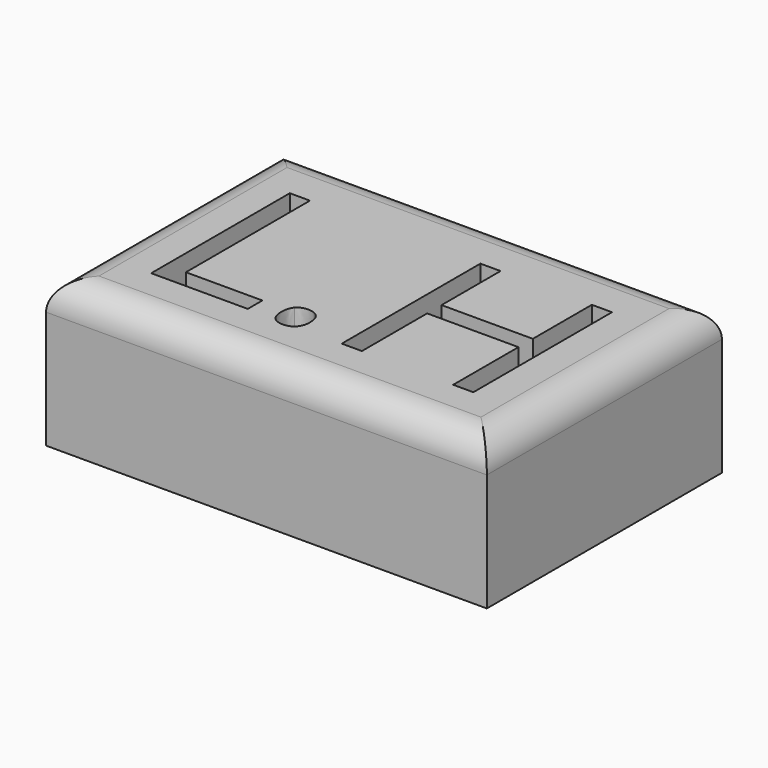
from build123d import *

# Parameters (mm, degrees)
F0_W     = 15
F0_H     = 10
F1_DEPTH = 5
F2_R     = 1


with BuildPart() as f1:
    # F0 (on Top) → F1 (new body)
    with BuildSketch(Plane.XY):
        with Locations((-17.5, -15)):
            Rectangle(F0_W, F0_H)
        with BuildLine():
            add(Edge.make_bspline(
                [(-18.7934799951, -17.996347811), (-18.9283657599, -17.8692066834), (-18.9283657599, -17.578782788)],
                knots=[0, 0, 0, 1, 1, 1], degree=2))
            add(Edge.make_bspline(
                [(-18.9283657599, -17.578782788), (-18.9283657599, -17.3077204856), (-18.8050969509, -17.1689624022)],
                knots=[0, 0, 0, 1, 1, 1], degree=2))
            add(Edge.make_bspline(
                [(-18.8050969509, -17.1689624022), (-18.681828142, -17.0302043189), (-18.4520705714, -17.0302043189)],
                knots=[0, 0, 0, 1, 1, 1], degree=2))
            add(Edge.make_bspline(
                [(-18.4520705714, -17.0302043189), (-18.2184406822, -17.0302043189), (-18.087427236, -17.1689624022)],
                knots=[0, 0, 0, 1, 1, 1], degree=2))
            add(Edge.make_bspline(
                [(-18.087427236, -17.1689624022), (-17.9564137899, -17.3077204856), (-17.9564137899, -17.578782788)],
                knots=[0, 0, 0, 1, 1, 1], degree=2))
            add(Edge.make_bspline(
                [(-17.9564137899, -17.578782788), (-17.9564137899, -17.8408096803), (-18.0893633953, -17.9821493094)],
                knots=[0, 0, 0, 1, 1, 1], degree=2))
            add(Edge.make_bspline(
                [(-18.0893633953, -17.9821493094), (-18.2223130008, -18.1234889385), (-18.4520705714, -18.1234889385)],
                knots=[0, 0, 0, 1, 1, 1], degree=2))
            add(Edge.make_bspline(
                [(-18.4520705714, -18.1234889385), (-18.6585942303, -18.1234889385), (-18.7934799951, -17.996347811)],
                knots=[0, 0, 0, 1, 1, 1], degree=2))
        make_face(mode=Mode.SUBTRACT)
        Polygon((-19.7312264841, -18.0060286075), (-23.0188249803, -18.0060286075), (-23.0188249803, -12.1084873711), (-22.3334245871, -12.1084873711), (-22.3334245871, -17.3851668577), (-19.7312264841, -17.3851668577), align=None, mode=Mode.SUBTRACT)
        Polygon((-12.0550002349, -12.1084873711), (-12.0550002349, -18.0060286075), (-12.7404006281, -18.0060286075), (-12.7404006281, -15.2308669401), (-15.8472909227, -15.2308669401), (-15.8472909227, -18.0060286075), (-16.5326913159, -18.0060286075), (-16.5326913159, -12.1084873711), (-15.8472909227, -12.1084873711), (-15.8472909227, -14.6177498276), (-12.7404006281, -14.6177498276), (-12.7404006281, -12.1084873711), align=None, mode=Mode.SUBTRACT)
    extrude(amount=F1_DEPTH)

    # F2
    f2_edges = [f1.edges().sort_by_distance(p)[0] for p in [
        (-10, -15, 5),
        (-17.5, -10, 5),
        (-17.5, -20, 5),
        (-25, -15, 5),
    ]]
    fillet(f2_edges, radius=F2_R)


solid = f1.part
